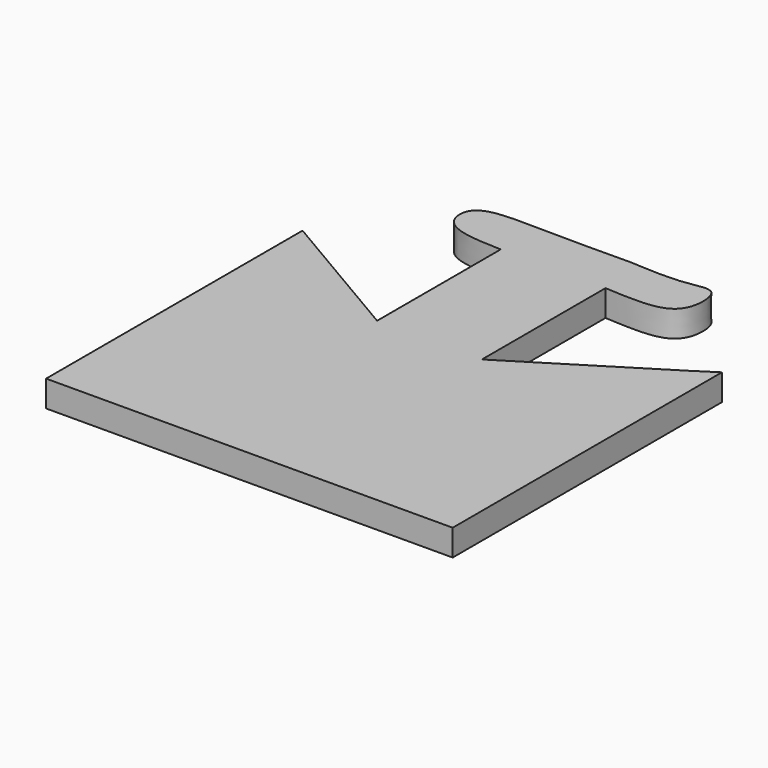
from build123d import *

# Parameters (mm, degrees)
F0_W     = 400
F0_H     = 350
F1_DEPTH = 19
F2_W     = 400
F2_H     = 350
F3_DEPTH = 19.001


with BuildPart() as f1:
    # F0 (on Top) → F1 (new body)
    with BuildSketch(Plane.XY):
        Rectangle(F0_W, F0_H)
    extrude(amount=F1_DEPTH)

    # F2 (on face) → F3 (cut, through all)
    with BuildSketch(Plane.XY.offset(19)):
        Rectangle(F2_W, F2_H)
        with BuildLine():
            Line((115.5973598361, -153.0813127756), (-177.45898664, -154.1298180819))
            Line((-177.45898664, -154.1298180819), (-177.45898664, 77.589161694))
            Line((-177.45898664, 77.589161694), (-75.7542774081, 17.8245361894))
            Line((-75.7542774081, 17.8245361894), (-75.7542774081, 129.4900178909))
            add(Edge.make_bspline(
                [(-75.7542774081, 129.4900178909), (-92.5905898665, 130.048758271), (-120.5839400698, 130.9777630735), (-122.8415590082, 164.5843374096), (-71.3078606349, 162.4624955112), (-31.6920084545, 162.8351811116), (-9.6986452118, 163.0420833826)],
                knots=[0, 0, 0, 0, 0.2547358121, 0.4235433867, 0.6799710471, 1, 1, 1, 1], degree=3))
            add(Edge.make_bspline(
                [(-9.6986452118, 163.0420833826), (5.098781529, 162.2178172219), (29.6038131176, 160.8528050032), (52.7302576819, 168.517858148), (54.4837178619, 141.7104516905), (41.1235764141, 127.0173850657), (15.530593969, 128.5562115494), (0, 129.4900178909)],
                knots=[0, 0, 0, 0, 0.251490102, 0.4164759862, 0.5893672455, 0.7508156545, 1, 1, 1, 1], degree=3))
            Line((0, 129.4900178909), (0, 17.8245361894))
            Line((0, 17.8245361894), (99.3455722928, 79.686164856))
            Line((99.3455722928, 79.686164856), (115.5973598361, 90.1711881161))
            Line((115.5973598361, 90.1711881161), (115.5973598361, -153.0813127756))
        make_face(mode=Mode.SUBTRACT)
    extrude(amount=-F3_DEPTH, mode=Mode.SUBTRACT)


solid = f1.part
